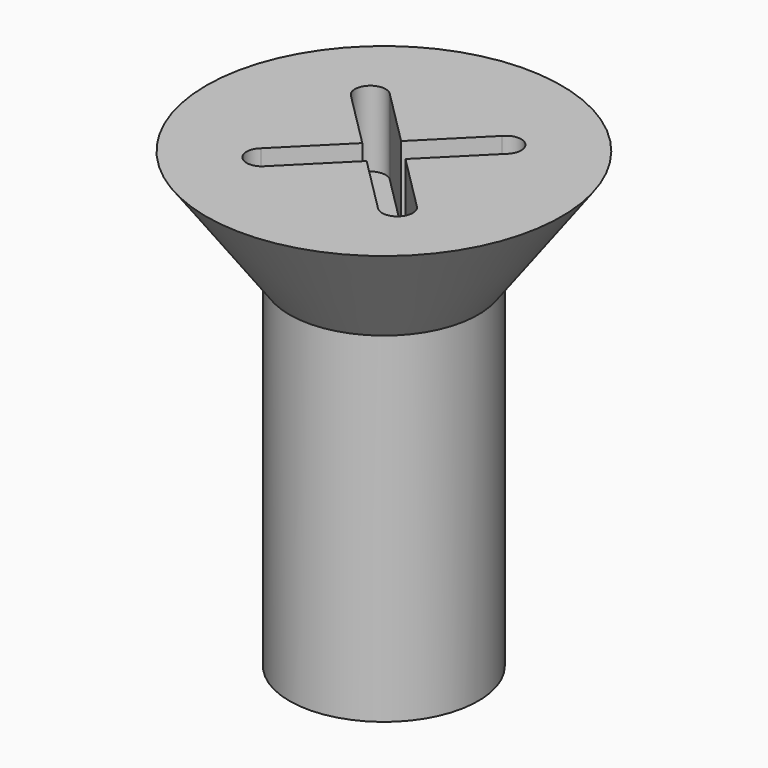
from build123d import *

# Parameters (mm, degrees)
POCKET_DEPTH = 1


with BuildPart() as part:
    # Sketch → Revolution (revolve)
    with BuildSketch(Plane.XZ):
        Polygon((0, 6), (-2.35, 6), (-1.25, 4.5), (-1.25, 0), (0, 0), align=None)
    revolve(axis=Axis((0, 0, 0), (0, 0, 1)))

    # Sketch001 (on Face1 of Revolution) → Pocket (cut)
    with BuildSketch(Plane(origin=(0, 0, 6), x_dir=(-1, 0, 0), z_dir=(0, 0, 1))):
        with BuildLine():
            Line((-0.74321, 1.028714), (0, 0.285504))
            Line((0.74321, 1.028714), (0, 0.285504))
            ThreePointArc((1.028714, 0.74321), (1.040084, 1.040084), (0.74321, 1.028714))
            Line((1.028714, 0.74321), (0.285504, 0))
            Line((1.028714, -0.74321), (0.285504, 0))
            ThreePointArc((0.74321, -1.028714), (1.040084, -1.040084), (1.028714, -0.74321))
            Line((0.74321, -1.028714), (0, -0.285504))
            Line((-0.74321, -1.028714), (0, -0.285504))
            ThreePointArc((-1.028714, -0.74321), (-1.040084, -1.040084), (-0.74321, -1.028714))
            Line((-1.028714, -0.74321), (-0.285504, 0))
            Line((-1.028714, 0.74321), (-0.285504, 0))
            ThreePointArc((-0.74321, 1.028714), (-1.040084, 1.040084), (-1.028714, 0.74321))
        make_face()
    extrude(amount=-POCKET_DEPTH, mode=Mode.SUBTRACT)


solid = part.part
